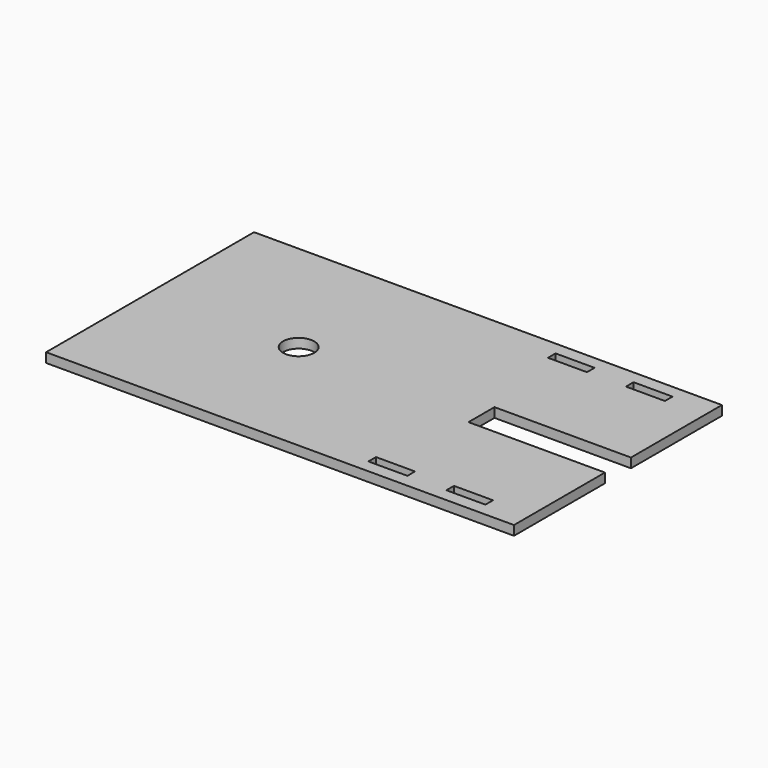
from build123d import *

# Parameters (mm, degrees)
F0_W     = 76.2
F0_H     = 18.542
F0_R     = 30.48
F1_DEPTH = 18.542
F2_DEPTH = 18.542


with BuildPart() as f1:
    # F0 (on Top) → F1 (new body)
    with BuildSketch(Plane.XY):
        Polygon((-732.4015087128, 852.3886724055), (-1646.8015087128, 852.3886724055), (-1646.8015087128, 547.5886724055), (-1646.8015087128, 344.3886724055), (-732.4015087128, 344.3886724055), (-732.4015087128, 369.7886724055), (-732.4015087128, 566.6386724055), (-999.1015087128, 566.6386724055), (-999.1015087128, 630.1386724055), (-732.4015087128, 630.1386724055), (-732.4015087128, 808.4466724055), (-732.4015087128, 826.9886724055), align=None)
        with Locations((-999.1015087128, 379.0596724055)):
            Rectangle(F0_W, F0_H, mode=Mode.SUBTRACT)
        with Locations((-846.7015087128, 379.0596724055)):
            Rectangle(F0_W, F0_H, mode=Mode.SUBTRACT)
        with Locations((-1356.4279079437, 598.3886724055)):
            Circle(F0_R, mode=Mode.SUBTRACT)
        with Locations((-999.1015087128, 817.7176724055)):
            Rectangle(F0_W, F0_H, mode=Mode.SUBTRACT)
        with Locations((-846.7015087128, 817.7176724055)):
            Rectangle(F0_W, F0_H, mode=Mode.SUBTRACT)
        Polygon((-732.4015087128, 852.3886724055), (-1646.8015087128, 852.3886724055), (-1646.8015087128, 547.5886724055), (-1646.8015087128, 344.3886724055), (-732.4015087128, 344.3886724055), (-732.4015087128, 369.7886724055), (-732.4015087128, 566.6386724055), (-999.1015087128, 566.6386724055), (-999.1015087128, 630.1386724055), (-732.4015087128, 630.1386724055), (-732.4015087128, 808.4466724055), (-732.4015087128, 826.9886724055), align=None)
        with Locations((-999.1015087128, 379.0596724055)):
            Rectangle(F0_W, F0_H, mode=Mode.SUBTRACT)
        with Locations((-846.7015087128, 379.0596724055)):
            Rectangle(F0_W, F0_H, mode=Mode.SUBTRACT)
        with Locations((-1356.4279079437, 598.3886724055)):
            Circle(F0_R, mode=Mode.SUBTRACT)
        with Locations((-999.1015087128, 817.7176724055)):
            Rectangle(F0_W, F0_H, mode=Mode.SUBTRACT)
        with Locations((-846.7015087128, 817.7176724055)):
            Rectangle(F0_W, F0_H, mode=Mode.SUBTRACT)
    extrude(amount=F1_DEPTH)

    # F0 (on Top) → F2 (join)
    with BuildSketch(Plane.XY):
        Polygon((-732.4015087128, 852.3886724055), (-1646.8015087128, 852.3886724055), (-1646.8015087128, 547.5886724055), (-1646.8015087128, 344.3886724055), (-732.4015087128, 344.3886724055), (-732.4015087128, 369.7886724055), (-732.4015087128, 566.6386724055), (-999.1015087128, 566.6386724055), (-999.1015087128, 630.1386724055), (-732.4015087128, 630.1386724055), (-732.4015087128, 808.4466724055), (-732.4015087128, 826.9886724055), align=None)
        with Locations((-999.1015087128, 379.0596724055)):
            Rectangle(F0_W, F0_H, mode=Mode.SUBTRACT)
        with Locations((-846.7015087128, 379.0596724055)):
            Rectangle(F0_W, F0_H, mode=Mode.SUBTRACT)
        with Locations((-1356.4279079437, 598.3886724055)):
            Circle(F0_R, mode=Mode.SUBTRACT)
        with Locations((-999.1015087128, 817.7176724055)):
            Rectangle(F0_W, F0_H, mode=Mode.SUBTRACT)
        with Locations((-846.7015087128, 817.7176724055)):
            Rectangle(F0_W, F0_H, mode=Mode.SUBTRACT)
    extrude(amount=F2_DEPTH)


solid = f1.part
